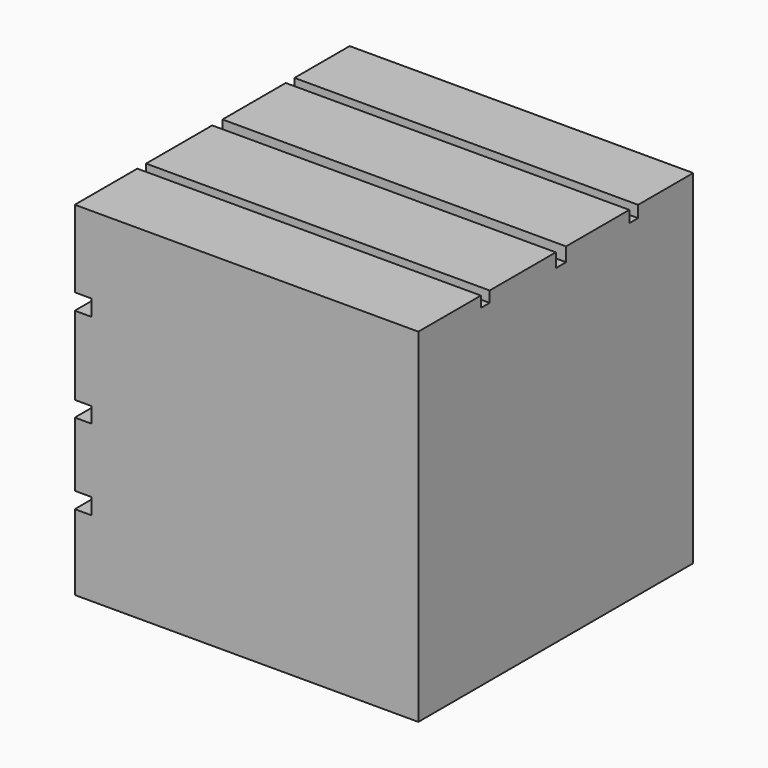
from build123d import *

# Parameters (mm, degrees)
F0_W      = 50.8
F0_H      = 50.8
F1_DEPTH  = 50.8
F2_W      = 2.475306233
F2_H      = 2.3846663535
F2_H_2    = 2.2988862634
F2_H_3    = 2.3846654221
F3_DEPTH  = 101.6
F4_W      = 1.6616544031
F4_H      = 1.6203634441
F4_W_2    = 1.5459133588
F4_H_2    = 1.9000842679
F5_DEPTH  = 79.502
F6_W      = 1.6203634441
F6_H      = 1.7323351085
F7_DEPTH  = 101.6
F8_W      = 1.9000842679
F8_H      = 2.0599110603
F9_DEPTH  = 101.6
F10_W     = 1.6203634441
F10_H     = 1.6135318756
F11_DEPTH = 101.6


with BuildPart() as f1:
    # F0 (on Top) → F1 (new body)
    with BuildSketch(Plane.XY):
        with Locations((-28.3131762408, 31.2416404974)):
            Rectangle(F0_W, F0_H)
    extrude(amount=F1_DEPTH)

    # F2 (on face) → F3 (cut)
    with BuildSketch(Plane.XZ.offset(-5.8416404974)):
        with Locations((-52.4755231243, 38.2039975375)):
            Rectangle(F2_W, F2_H)
        with Locations((-52.4755231243, 24.2505568683)):
            Rectangle(F2_W, F2_H_2)
        with Locations((-52.4755231243, 12.3701184057)):
            Rectangle(F2_W, F2_H_3)
    extrude(amount=-F3_DEPTH, mode=Mode.SUBTRACT)

    # F4 (on face) → F5 (cut)
    with BuildSketch(Plane.XY.offset(50.8)):
        with Locations((-52.8823490392, 45.6416811794)):
            Rectangle(F4_W, F4_H)
        with Locations((-52.9402195614, 32.1916826314)):
            Rectangle(F4_W_2, F4_H_2)
        with Locations((-52.8823490392, 18.2112250477)):
            Rectangle(F4_W, F4_H)
    extrude(amount=-F5_DEPTH, mode=Mode.SUBTRACT)

    # F6 (on face) → F7 (cut)
    with BuildSketch(Plane(origin=(-52.0515218377, 0, 0), x_dir=(0, -1, 0), z_dir=(-1, 0, 0))):
        with Locations((-45.6416811794, 49.9338324457)):
            Rectangle(F6_W, F6_H)
    extrude(amount=-F7_DEPTH, mode=Mode.SUBTRACT)

    # F8 (on face) → F9 (cut)
    with BuildSketch(Plane(origin=(-52.167262882, 0, 0), x_dir=(0, -1, 0), z_dir=(-1, 0, 0))):
        with Locations((-32.1916826314, 49.7700444698)):
            Rectangle(F8_W, F8_H)
    extrude(amount=-F9_DEPTH, mode=Mode.SUBTRACT)

    # F10 (on face) → F11 (cut)
    with BuildSketch(Plane(origin=(-52.0515218377, 0, 0), x_dir=(0, -1, 0), z_dir=(-1, 0, 0))):
        with Locations((-18.2112250477, 49.9932340622)):
            Rectangle(F10_W, F10_H)
    extrude(amount=-F11_DEPTH, mode=Mode.SUBTRACT)


solid = f1.part
